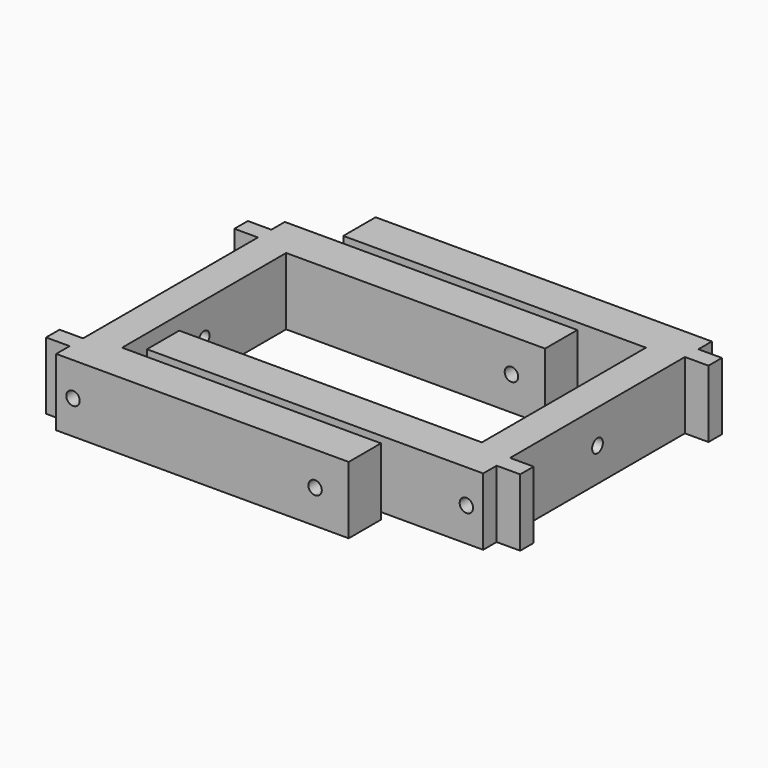
from build123d import *

# Parameters (mm, degrees)
PAD_DEPTH       = 20
SKETCH004_R     = 2
POCKET002_DEPTH = 87.001
SKETCH005_R     = 2
POCKET003_DEPTH = 85.001
PAD001_DEPTH    = 20
SKETCH007_R     = 2
POCKET004_DEPTH = 100.001
SKETCH008_R     = 2
POCKET005_DEPTH = 85.001


with BuildPart() as soporte_agujero_superior_lateral:
    # Sketch → Pad (new body)
    with BuildSketch(Plane.XY):
        Polygon((-10, -42.5), (77, -42.5), (77, -30.5), (0, -30.5), (0, 30.5), (77, 30.5), (77, 42.5), (-10, 42.5), (-10, 37.5), (-17, 37.5), (-17, 32.5), (-10, 32.5), (-10, -32.5), (-17, -32.5), (-17, -37.5), (-10, -37.5), align=None)
    extrude(amount=PAD_DEPTH)

    # Sketch004 → Pocket002 (cut, through all)
    with BuildSketch(Plane(origin=(-10, 0, 0), x_dir=(0, -1, 0), z_dir=(-1, 0, 0))):
        with Locations((0, 10)):
            Circle(SKETCH004_R)
    extrude(amount=-POCKET002_DEPTH, mode=Mode.SUBTRACT)

    # Sketch005 → Pocket003 (cut, through all)
    with BuildSketch(Plane.XZ.offset(42.5)):
        with Locations((-5, 10)):
            Circle(SKETCH005_R)
        with Locations((67, 10)):
            Circle(SKETCH005_R)
    extrude(amount=-POCKET003_DEPTH, mode=Mode.SUBTRACT)


with BuildPart() as soporte_agujero_superior_lateral001:
    # Sketch006 → Pad001 (new body)
    with BuildSketch(Plane(origin=(95, 15, 0), x_dir=(-1, 0, 0), z_dir=(0, 0, 1))):
        Polygon((-10, -42.5), (90, -42.5), (90, -30.5), (0, -30.5), (0, 30.5), (90, 30.5), (90, 42.5), (-10, 42.5), (-10, 37.5), (-17, 37.5), (-17, 32.5), (-10, 32.5), (-10, -32.5), (-17, -32.5), (-17, -37.5), (-10, -37.5), align=None)
    extrude(amount=PAD001_DEPTH)

    # Sketch007 → Pocket004 (cut, through all)
    with BuildSketch(Plane(origin=(105, 15, 0), x_dir=(0, 1, 0), z_dir=(1, 0, 0))):
        with Locations((0, 10)):
            Circle(SKETCH007_R)
    extrude(amount=-POCKET004_DEPTH, mode=Mode.SUBTRACT)

    # Sketch008 → Pocket005 (cut, through all)
    with BuildSketch(Plane(origin=(95, 57.5, 0), x_dir=(-1, 0, 0), z_dir=(0, 1, 0))):
        with Locations((-5, 10)):
            Circle(SKETCH008_R)
        with Locations((80, 10)):
            Circle(SKETCH008_R)
    extrude(amount=-POCKET005_DEPTH, mode=Mode.SUBTRACT)


solid = Compound([soporte_agujero_superior_lateral.part, soporte_agujero_superior_lateral001.part])
